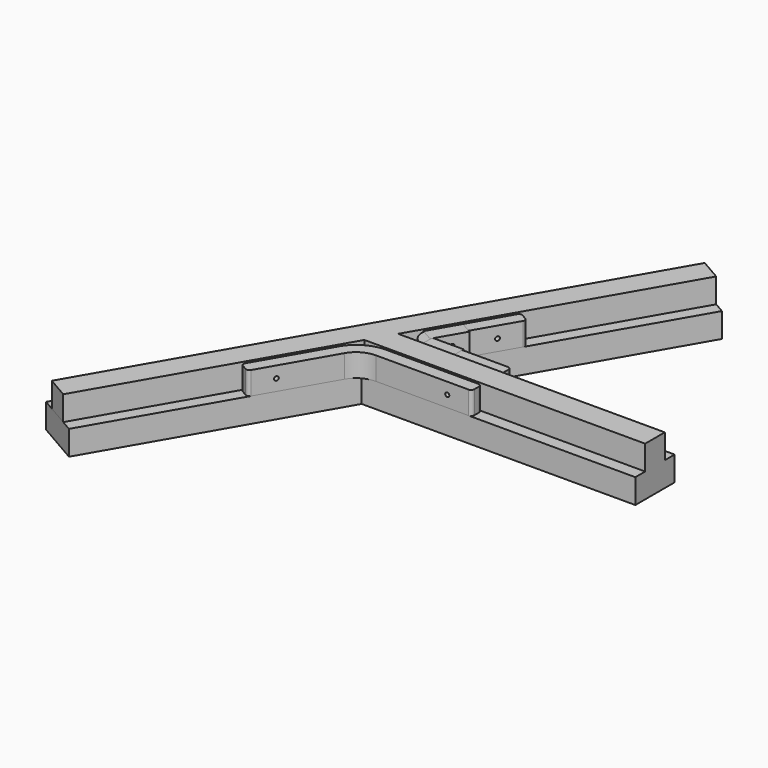
from build123d import *

# Parameters (mm, degrees)
PAD_DEPTH       = 15
PAD001_DEPTH    = 15
PAD002_DEPTH    = 14
SKETCH006_R     = 1.25
POCKET002_DEPTH = 7.501
SKETCH007_R     = 1.25
POCKET003_DEPTH = 54.5522701892
FILLET001_R     = 2
PAD003_DEPTH    = 14
SKETCH004_R     = 1.25
POCKET_DEPTH    = 7.501
SKETCH005_R     = 1.25
POCKET001_DEPTH = 34.7808002192
FILLET_R        = 2
PAD004_DEPTH    = 14
SKETCH009_W     = 19.0414518843
SKETCH009_H     = 14
PAD005_DEPTH    = 7.5
SKETCH010_R     = 1.6
POCKET004_DEPTH = 8.501
SKETCH014_R     = 1
POCKET006_DEPTH = 1
PAD006_DEPTH    = 14
SKETCH012_W     = 20.1961524227
SKETCH012_H     = 14
PAD007_DEPTH    = 7.5
SKETCH013_R     = 1.6
POCKET005_DEPTH = 17.2461905284
POCKET007_DEPTH = 1


with BuildPart() as obj1:
    # Sketch → Pad (new body)
    with BuildSketch(Plane.XY):
        Polygon((-100.9807621135, -114.9038105677), (66.3397459622, 174.9038105677), (92.3205080757, 159.9038105677), (17.3205080757, 30), (167.3205080757, 30), (167.3205080757, 0), (0, 0), (-75, -129.9038105677), align=None)
    extrude(amount=PAD_DEPTH)

    # Sketch001 (on Face10 of Pad) → Pad001 (join)
    with BuildSketch(Plane.XY.offset(15)):
        Polygon((85.8253175473, 163.6538105677), (4.3301270189, 22.5), (167.3205080757, 22.5), (167.3205080757, 7.5), (-4.3301270189, 7.5), (-81.4951905284, -126.1538105677), (-94.4855715851, -118.6538105677), (72.8349364905, 171.1538105677), align=None)
    extrude(amount=PAD001_DEPTH)


with BuildPart() as support_inter:
    # Sketch002 → Pad002 (new body)
    with BuildSketch(Plane.XY):
        with BuildLine():
            Line((67.3205080757, 22.5), (20.7846096908, 22.5))
            ThreePointArc((12.5573683549, 36.75), (12.5573683549, 27.25), (20.7846096908, 22.5))
            Line((12.5573683549, 36.75), (35.8253175473, 77.0512701892))
            Line((35.8253175473, 77.0512701892), (42.3205080757, 73.3012701892))
            Line((42.3205080757, 73.3012701892), (19.0525553763, 32.9999939257))
            ThreePointArc((19.0525553763, 32.9999939257), (19.0525606367, 30.9999969629), (20.7846096908, 30))
            Line((20.7846096908, 30), (67.3205080757, 30))
            Line((67.3205080757, 30), (67.3205080757, 22.5))
        make_face()
    extrude(amount=PAD002_DEPTH)

    # Sketch006 (on Face5 of Pad002) → Pocket002 (cut, through all)
    with BuildSketch(Plane(origin=(0, 30, 0), x_dir=(-1, 0, 0), z_dir=(0, 1, 0))):
        with Locations((-52.3205080757, 7)):
            Circle(SKETCH006_R)
    extrude(amount=-POCKET002_DEPTH, mode=Mode.SUBTRACT)

    # Sketch007 (on Face1 of Pocket002) → Pocket003 (cut, through all)
    with BuildSketch(Plane(origin=(-6.4951905284, 3.75, 0), x_dir=(-0.5, -0.8660254038, 0), z_dir=(-0.8660254038, 0.5, 0))):
        with Locations((-69.6410161514, 7)):
            Circle(SKETCH007_R)
    extrude(amount=-POCKET003_DEPTH, mode=Mode.SUBTRACT)

    # Fillet001
    fillet001_edges = [support_inter.edges().sort_by_distance(p)[0] for p in [
        (67.320508, 22.5, 7),
        (67.320508, 30, 7),
        (42.320508, 73.30127, 7),
        (35.825318, 77.05127, 7),
    ]]
    fillet(fillet001_edges, radius=FILLET001_R)


with BuildPart() as support_inter_1:
    # Body001 placement: moved
    add(support_inter.part.moved(Location((0, 0, 15))))


with BuildPart() as obj2:
    # Sketch003 (on ShapeBinder) → Pad003 (new body)
    with BuildSketch(Plane.XY.offset(15)):
        with BuildLine():
            Line((-10.8253175473, -3.75), (-35.8301270189, -47.0596004384))
            Line((-35.8301270189, -47.0596004384), (-29.3349364905, -50.8096004384))
            Line((-29.3349364905, -50.8096004384), (-4.3301270189, -7.5))
            ThreePointArc((8.6602540378, 0), (1.1602540378, -2.0096189432), (-4.3301270189, -7.5))
            Line((8.6602540378, 0), (67.3205080757, 0))
            Line((67.3205080757, 0), (67.3205080757, 7.5))
            Line((67.3205080757, 7.5), (8.6602540378, 7.5))
            ThreePointArc((8.6602540378, 7.5), (-2.5897459622, 4.4855715852), (-10.8253175473, -3.75))
        make_face()
    extrude(amount=PAD003_DEPTH)

    # Sketch004 (on Face1 of Pad003) → Pocket (cut, through all)
    with BuildSketch(Plane.XZ):
        with Locations((52.3205080757, 22)):
            Circle(SKETCH004_R)
    extrude(amount=-POCKET_DEPTH, mode=Mode.SUBTRACT)

    # Sketch005 (on Face7 of Pocket) → Pocket001 (cut, through all)
    with BuildSketch(Plane(origin=(0, 0, 0), x_dir=(0.5, 0.8660254038, 0), z_dir=(0.8660254038, -0.5, 0))):
        with Locations((-43.6698729811, 22)):
            Circle(SKETCH005_R)
    extrude(amount=-POCKET001_DEPTH, mode=Mode.SUBTRACT)

    # Fillet
    fillet_edges = [obj2.edges().sort_by_distance(p)[0] for p in [
        (-29.334936, -50.8096, 22),
        (-35.830127, -47.0596, 22),
        (67.320508, 0, 22),
        (67.320508, 7.5, 22),
    ]]
    fillet(fillet_edges, radius=FILLET_R)


with BuildPart() as obj3:
    # Sketch008 (on Face1 of Binder001) → Pad004 (new body, symmetric)
    with BuildSketch(Plane.XY.offset(15)):
        Polygon((19.0525588833, 31), (18.4752086141, 30), (37.5166604984, 30), (37.5166604984, 31), align=None)
    extrude(amount=PAD004_DEPTH, both=True)

    # Sketch009 (on Face2 of Pad004) → Pad005 (join)
    with BuildSketch(Plane.XZ.offset(-30)):
        with Locations((27.9959345562, 22)):
            Rectangle(SKETCH009_W, SKETCH009_H)
    extrude(amount=PAD005_DEPTH)

    # Sketch010 (on Face2 of Pad005) → Pocket004 (cut, through all)
    with BuildSketch(Plane(origin=(0, 31, 0), x_dir=(-1, 0, 0), z_dir=(0, 1, 0))):
        with Locations((-28.5166604984, 22.5)):
            Circle(SKETCH010_R)
        with Locations((-28.5166604984, 7.5)):
            Circle(SKETCH010_R)
    extrude(amount=-POCKET004_DEPTH, mode=Mode.SUBTRACT)

    # Sketch014 (on Face12 of Pocket004) → Pocket006 (cut)
    with BuildSketch(Plane.XZ.offset(-22.5)):
        Polygon((23.6713610368, 25), (23.6713610368, 19), (18.4752086141, 22), align=None)
        with Locations((21.9393102292, 22)):
            Circle(SKETCH014_R, mode=Mode.SUBTRACT)
    extrude(amount=-POCKET006_DEPTH, mode=Mode.SUBTRACT)


with BuildPart() as obj4:
    # Sketch011 (on ShapeBinder) → Pad006 (new body, symmetric)
    with BuildSketch(Plane.XY.offset(15)):
        Polygon((17.3205080757, 30), (27.418584287, 47.4903810568), (28.2846096908, 46.9903810568), (18.4752086141, 30), align=None)
    extrude(amount=PAD006_DEPTH, both=True)

    # Sketch012 (on Face1 of Pad006) → Pad007 (join)
    with BuildSketch(Plane(origin=(0, 0, 0), x_dir=(-0.5, -0.8660254038, 0), z_dir=(-0.8660254038, 0.5, 0))):
        with Locations((-44.7390923627, 22)):
            Rectangle(SKETCH012_W, SKETCH012_H)
    extrude(amount=PAD007_DEPTH)

    # Sketch013 (on Face6 of Pad007) → Pocket005 (cut, through all)
    with BuildSketch(Plane(origin=(0.8660254038, -0.5, 0), x_dir=(0.5, 0.8660254038, 0), z_dir=(0.8660254038, -0.5, 0))):
        with Locations((45.8371685741, 22.5)):
            Circle(SKETCH013_R)
        with Locations((45.8371685741, 7.5)):
            Circle(SKETCH013_R)
    extrude(amount=-POCKET005_DEPTH, mode=Mode.SUBTRACT)

    # Sketch015 (on Face11 of Pocket005) → Pocket007 (cut)
    with BuildSketch(Plane(origin=(-6.4951905284, 3.75, 0), x_dir=(-0.5, -0.8660254038, 0), z_dir=(-0.8660254038, 0.5, 0))):
        Polygon((-39.8371685741, 25), (-39.8371685741, 19), (-34.6410161514, 22), align=None)
    extrude(amount=-POCKET007_DEPTH, mode=Mode.SUBTRACT)


solid = Compound([obj1.part, support_inter_1.part, obj2.part, obj3.part, obj4.part])
